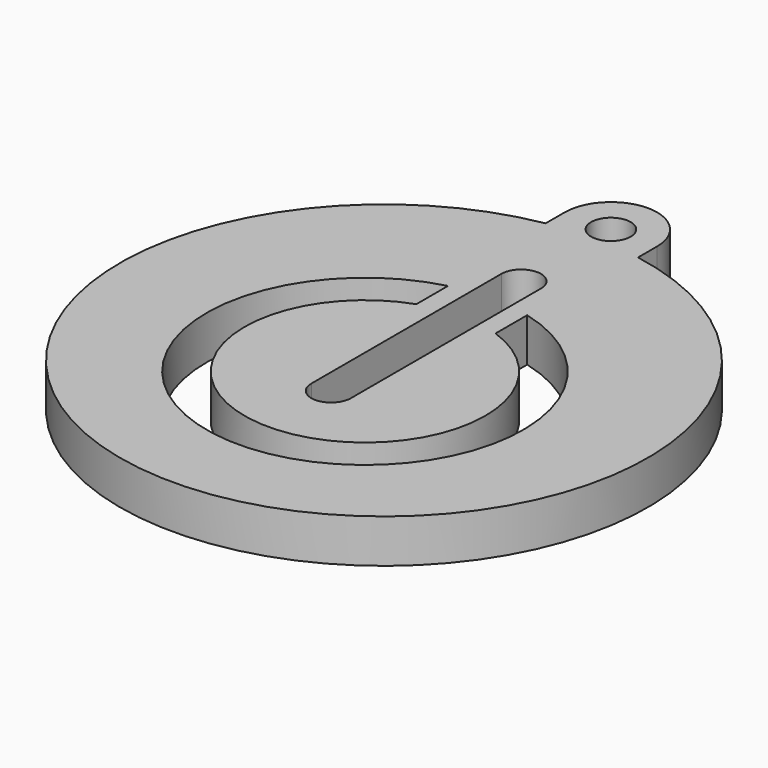
from build123d import *

# Parameters (mm, degrees)
EXTRUDE_DEPTH   = 3.3
SKETCH001_R     = 1.5
POCKET_DEPTH    = 3.301
POCKET001_DEPTH = 3.301


with BuildPart() as part:
    # Sketch → Extrude (new body)
    with BuildSketch(Plane.XY):
        with BuildLine():
            ThreePointArc((3.5, 21.5), (0, 25), (-3.5, 21.5))
            Line((-3.5, 21.5), (-3.5, 19.691369))
            ThreePointArc((-3.5, 19.691369), (0, -20), (3.5, 19.691369))
            Line((3.5, 19.691369), (3.5, 21.5))
        make_face()
    extrude(amount=EXTRUDE_DEPTH)

    # Sketch001 (on Face6 of Extrude) → Pocket (cut, through all)
    with BuildSketch(Plane.XY.offset(3.3)):
        with Locations((0, 21.5)):
            Circle(SKETCH001_R)
    extrude(amount=-POCKET_DEPTH, mode=Mode.SUBTRACT)

    # Sketch002 (on Face6 of BaseFeature) → Pocket001 (cut, through all)
    with BuildSketch(Plane.XY.offset(3.3)):
        with BuildLine():
            Line((-1.5, 13), (-1.5, -5))
            ThreePointArc((-1.5, -5), (0, -6.5), (1.5, -5))
            Line((1.5, 13), (1.5, -5))
            ThreePointArc((1.5, 13), (0, 14.5), (-1.5, 13))
        make_face()
        with BuildLine():
            ThreePointArc((-3, 6.81895), (0, -10.926133), (3, 6.81895))
            Line((3, 9.81895), (3, 6.81895))
            ThreePointArc((-3, 9.81895), (0, -13.8), (3, 9.81895))
            Line((-3, 6.81895), (-3, 9.81895))
        make_face()
    extrude(amount=-POCKET001_DEPTH, mode=Mode.SUBTRACT)


solid = part.part
